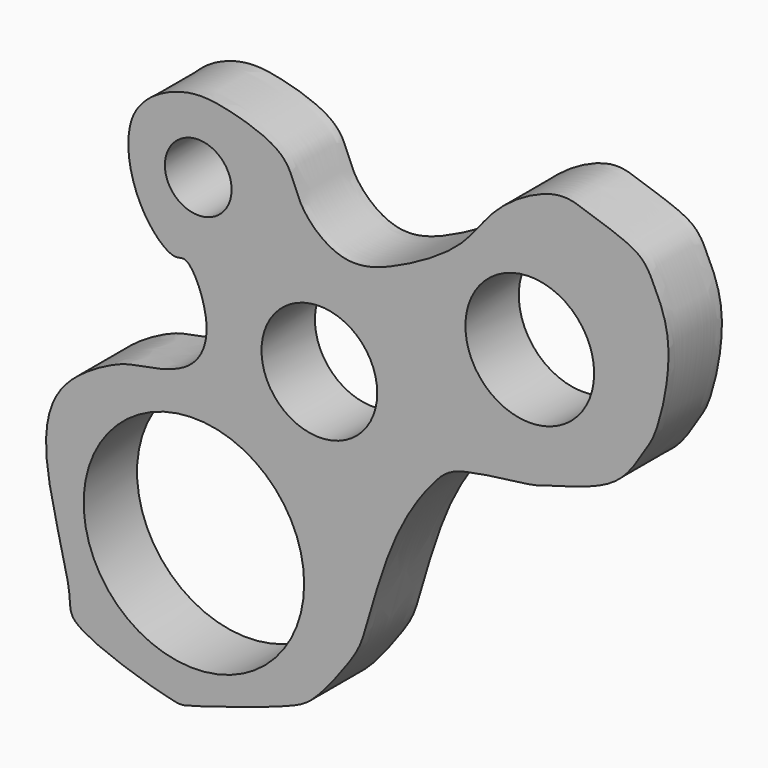
from build123d import *

# Parameters (mm, degrees)
F1_DEPTH = 25.4
F3_D     = 25.4
F2_R     = 24.4975157048
F2_R_2   = 22.0239533482
F2_R_3   = 41.9634854905
F4_DEPTH = 360.934


with BuildPart() as f1:
    # F0 (on Front) → F1 (new body)
    with BuildSketch(Plane.XZ):
        with BuildLine():
            add(Edge.make_bspline(
                [(-114.8774698377, 42.4887537956), (-111.3874842009, 49.9080455343), (-96.12764615, 58.163065403), (-79.3160231287, 56.3853047832), (-54.9972528188, 48.6729117796), (-53.2835948669, 31.9534746297), (-34.7513579826, 16.0442259657), (-11.7347384986, 25.0236559145), (11.7622216574, 38.8853326415), (22.0463091356, 57.3648658967), (46.4359091949, 70.7036361882), (59.0503241367, 65.1459289176), (78.2272981382, 59.5855803855), (83.2147910025, 49.7006254844), (91.6717229686, 31.595695345), (84.4452147906, -0.6646894679), (78.8876957631, -7.1160130441), (70.2263917081, -24.0546846802), (42.9229909694, -29.991943001), (37.4669781027, -32.9566462607), (8.2252841557, -35.2274148982), (-0.5282912439, -42.6423545209), (-16.9383077471, -65.0226328515), (-26.7180626131, -102.3211024599), (-30.1972800272, -111.3176514363), (-45.4313980427, -131.3484443521), (-54.88188338, -136.9933739246), (-94.2826994641, -149.2887620056), (-99.3885533851, -149.928248889), (-140.9743576342, -137.1849385888), (-137.4941421561, -125.4354109261), (-151.9001560818, -82.7747886924), (-144.7460250362, -55.2569623899), (-121.6405262003, -42.9894230294), (-114.5278626458, -41.2280738056), (-91.8708459188, -37.9320602497), (-84.0102131431, -19.2351085095), (-93.9025090557, 2.6727637835), (-100.1016970224, -2.0537743902), (-115.1664138707, 11.9183034656), (-118.8881802429, 33.962463526), (-114.8774698377, 42.4887537956)],
                knots=[0, 0, 0, 0, 0.0277538904, 0.0521115305, 0.0796557496, 0.1022282344, 0.1285285512, 0.1563129484, 0.1862924086, 0.2131780287, 0.2420369181, 0.2634114474, 0.2884239369, 0.3068873674, 0.3327152206, 0.3651698082, 0.3822548821, 0.4065625851, 0.4359896848, 0.451987876, 0.4821237632, 0.5018328166, 0.532236701, 0.5678483248, 0.5868554989, 0.6143331192, 0.6357792265, 0.6715195529, 0.6881002618, 0.7237335397, 0.7419998838, 0.7800784457, 0.8107799574, 0.8384907155, 0.8549527074, 0.881061083, 0.9061099475, 0.931807945, 0.9438349146, 0.9681050787, 1, 1, 1, 1], degree=3))
        make_face()
    extrude(amount=F1_DEPTH)

    # F3 (through all)
    with Locations(Plane(origin=(0, 0, 0), x_dir=(1, 0, 0), z_dir=(0, 1, 0))):
        with Locations((-90.357594192, -29.3611939996)):
            Hole(F3_D / 2)

    # F2 (on Front) → F4 (cut)
    with BuildSketch(Plane.XZ):
        with Locations((35.8332581818, 12.686512433)):
            Circle(F2_R)
        with Locations((-44.2508384585, -20.7539945841)):
            Circle(F2_R_2)
        with Locations((-92.0105725527, -93.7802642584)):
            Circle(F2_R_3)
    extrude(amount=F4_DEPTH, mode=Mode.SUBTRACT)


solid = f1.part
